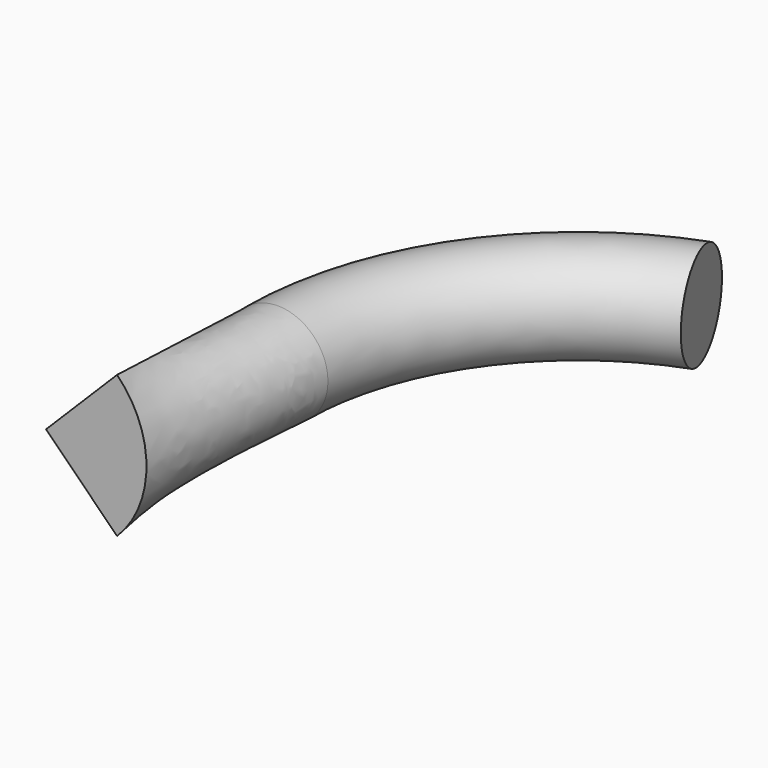
from build123d import *

# Parameters (mm, degrees)
F2_R = 12.7


with BuildPart() as f5:
    # F0 (on Front) → F5 section 0
    with BuildSketch(Plane.XZ):
        with BuildLine():
            Line((0, 0), (17.960512, -17.960512))
            ThreePointArc((17.960512, -17.960512), (25.4, 0), (17.960512, 17.960512))
            Line((17.960512, 17.960512), (0, 0))
        make_face()
    # F4 (on offset) → F5 section 1
    with BuildSketch(Plane.XZ.offset(-50.8)):
        with BuildLine():
            Line((0, 0), (8.980256, -8.980256))
            ThreePointArc((8.980256, -8.980256), (30.660512, 0), (8.980256, 8.980256))
            Line((8.980256, 8.980256), (0, 0))
        make_face()
    loft()

    # F6: sweep along a path in F3
    with BuildLine(Plane.XY) as f6_path:
        ThreePointArc((67.918062, 122.404577), (31.560611, 94.506524), (17.779997, 50.799999))
    # F2 (on offset) → F6 (sweep)
    with BuildSketch(Plane.XZ.offset(-50.8)):
        with Locations((17.960512, 0)):
            Circle(F2_R)
    sweep(path=f6_path.line)


solid = f5.part
